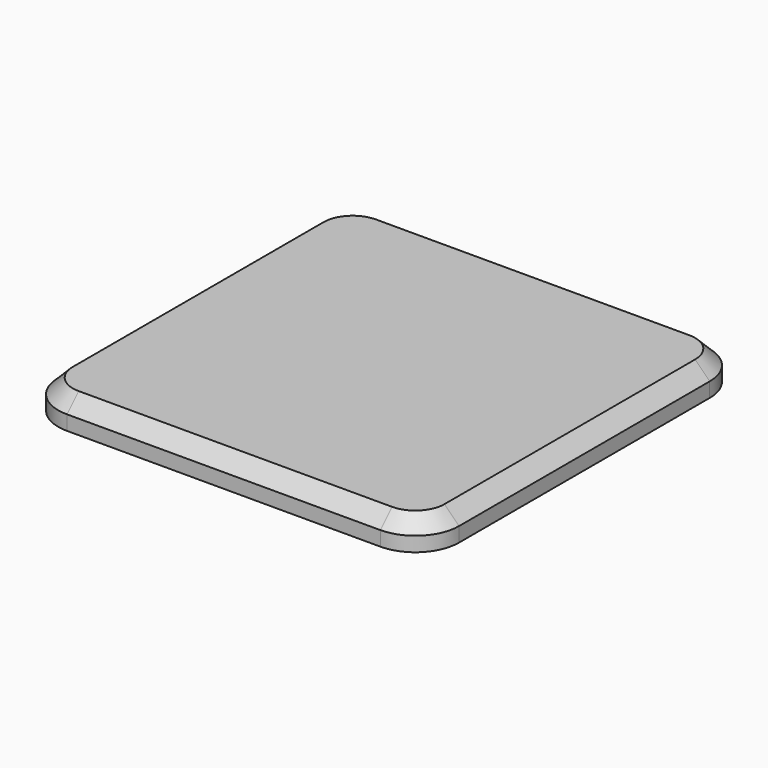
from build123d import *

# Parameters (mm, degrees)
F1_DEPTH = 20
F2_SIZE  = 10
F4_D     = 12
F4_DEPTH = 10
F4_TIP   = 3.6051637142


with BuildPart() as f1:
    # F0 (on Top) → F1 (new body)
    with BuildSketch(Plane.XY):
        with BuildLine():
            Line((107.5, 137.5), (-107.5, 137.5))
            ThreePointArc((-107.5, 137.5), (-128.7132034356, 128.7132034356), (-137.5, 107.5))
            Line((-137.5, 107.5), (-137.5, -107.5))
            ThreePointArc((-137.5, -107.5), (-128.7132034356, -128.7132034356), (-107.5, -137.5))
            Line((-107.5, -137.5), (107.5, -137.5))
            ThreePointArc((107.5, -137.5), (128.7132034356, -128.7132034356), (137.5, -107.5))
            Line((137.5, -107.5), (137.5, 107.5))
            ThreePointArc((137.5, 107.5), (128.7132034356, 128.7132034356), (107.5, 137.5))
        make_face()
    extrude(amount=F1_DEPTH)

    # F2
    f2_edges = [f1.edges().sort_by_distance(p)[0] for p in [
        (-137.5, 0, 20),
    ]]
    chamfer(f2_edges, length=F2_SIZE)

    # F4
    with Locations(Plane(origin=(0, 0, 0), x_dir=(1, 0, 0), z_dir=(0, 0, -1))):
        with Locations((-112.5, 112.5), (112.5, 112.5), (112.5, -112.5), (-112.5, -112.5)):
            Hole(F4_D / 2, depth=F4_DEPTH)
            with Locations((0, 0, -(F4_DEPTH + F4_TIP / 2))):  # 118° drill point
                Cone(0, F4_D / 2, F4_TIP, mode=Mode.SUBTRACT)


solid = f1.part
